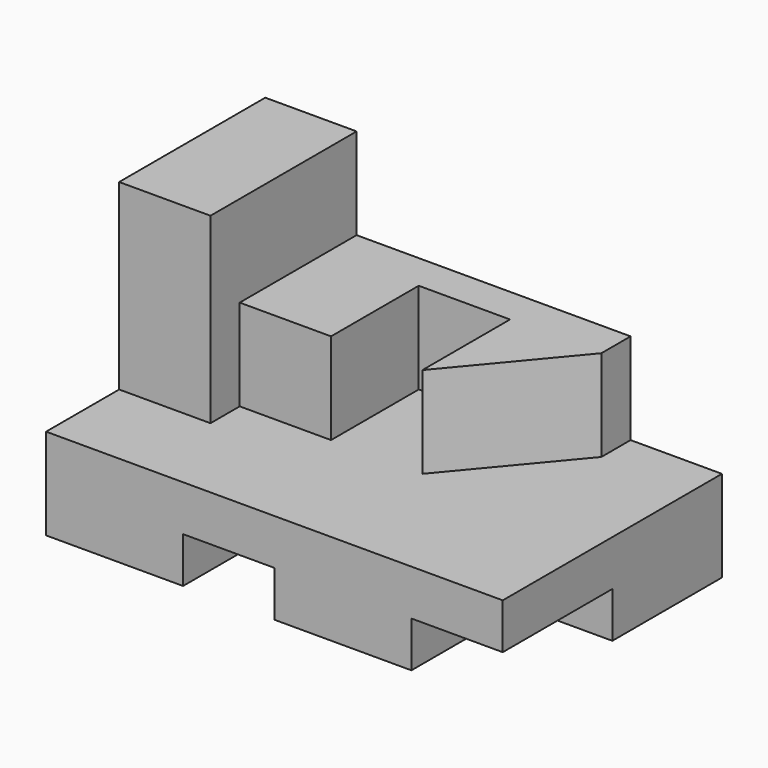
from build123d import *

# Parameters (mm, degrees)
F1_DEPTH = 95.25
F0_W     = 63.5
F0_H     = 31.75
F2_DEPTH = 95.25
F4_DEPTH = 127
F5_DEPTH = 63.5


with BuildPart() as f1:
    # F0 (on Front) → F1 (new body)
    with BuildSketch(Plane.XZ):
        Polygon((0, 63.5), (0, 0), (95.25, 0), (95.25, 31.75), (158.75, 31.75), (158.75, 0), (254, 0), (254, 31.75), (317.5, 31.75), (317.5, 63.5), align=None)
    extrude(amount=F1_DEPTH)

    # F0 (on Front) + F1_face (on face) → F2 (join)
    with BuildSketch(Plane.XZ):
        with Locations((285.75, 15.875)):
            Rectangle(F0_W, F0_H)
    with BuildSketch(Plane(origin=(146.84375, -95.25, 35.71875), x_dir=(1, 0, 0), z_dir=(0, -1, 0))):
        Polygon((-146.84375, 27.78125), (-146.84375, -35.71875), (-51.59375, -35.71875), (-51.59375, -3.96875), (11.90625, -3.96875), (11.90625, -35.71875), (107.15625, -35.71875), (107.15625, -3.96875), (170.65625, -3.96875), (170.65625, 27.78125), align=None)
    extrude(amount=F2_DEPTH)

    # F3 (on face) → F4 (join)
    with BuildSketch(Plane.XY.offset(63.5)):
        Polygon((63.5, 0), (0, 0), (0, -127), (63.5, -127), (63.5, -101.6), align=None)
    extrude(amount=F4_DEPTH)

    # F3 (on face) → F5 (join)
    with BuildSketch(Plane.XY.offset(63.5)):
        Polygon((254, 0), (63.5, 0), (63.5, -101.6), (127, -101.6), (127, -25.4), (190.5, -25.4), (190.5, -101.6), (254, -25.4), align=None)
    extrude(amount=F5_DEPTH)


solid = f1.part
